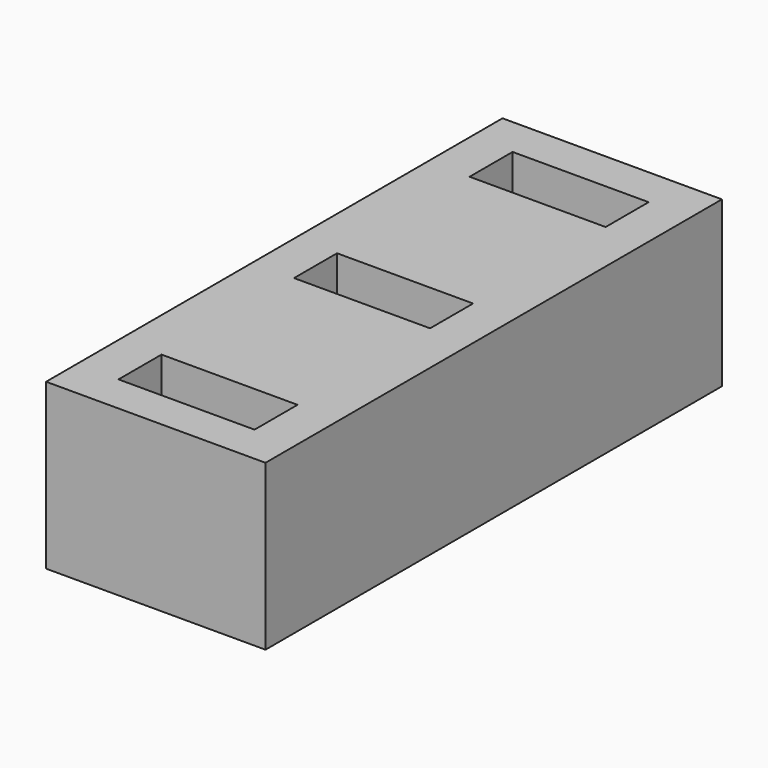
from build123d import *

# Parameters (mm, degrees)
BOX003_W     = 12.4
BOX003_H     = 4.9
BOX003_DEPTH = 15
BOX002_W     = 12.4
BOX002_H     = 4.9
BOX002_DEPTH = 15
BOX001_W     = 12.4
BOX001_H     = 4.9
BOX001_DEPTH = 15
BOX_W        = 20
BOX_H        = 52
BOX_DEPTH    = 15


with BuildPart() as cubo003:
    # Box003 → Box003 (new body)
    with BuildSketch(Plane(origin=(3.8, 43.5, 0), x_dir=(1, 0, 0), z_dir=(0, 0, 1))):
        with Locations((6.2, 2.45)):
            Rectangle(BOX003_W, BOX003_H)
    extrude(amount=BOX003_DEPTH)


with BuildPart() as cubo002:
    # Box002 → Box002 (new body)
    with BuildSketch(Plane(origin=(3.8, 23.5, 0), x_dir=(1, 0, 0), z_dir=(0, 0, 1))):
        with Locations((6.2, 2.45)):
            Rectangle(BOX002_W, BOX002_H)
    extrude(amount=BOX002_DEPTH)


with BuildPart() as cubo001:
    # Box001 → Box001 (new body)
    with BuildSketch(Plane(origin=(3.8, 3.5, 0), x_dir=(1, 0, 0), z_dir=(0, 0, 1))):
        with Locations((6.2, 2.45)):
            Rectangle(BOX001_W, BOX001_H)
    extrude(amount=BOX001_DEPTH)


with BuildPart() as cut002:
    # Box → Box (new body)
    with BuildSketch(Plane.XY):
        with Locations((10, 26)):
            Rectangle(BOX_W, BOX_H)
    extrude(amount=BOX_DEPTH)

    # Cut: cut Cubo001
    add(cubo001.part, mode=Mode.SUBTRACT)

    # Cut001: cut Cubo002
    add(cubo002.part, mode=Mode.SUBTRACT)

    # Cut002: cut Cubo003
    add(cubo003.part, mode=Mode.SUBTRACT)


solid = cut002.part
